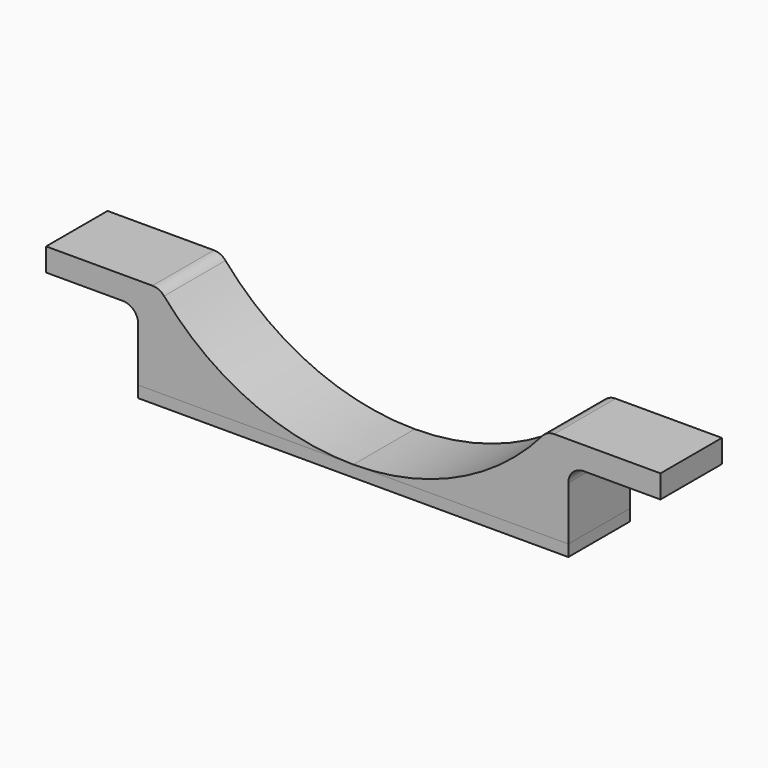
from build123d import *

# Parameters (mm, degrees)
F1_DEPTH = 10
F3_DEPTH = 10


with BuildPart() as f1:
    # F0 (on Front) → F1 (new body)
    with BuildSketch(Plane.XZ):
        with BuildLine():
            Line((-26.153394, 12), (-40, 12))
            Line((-40, 12), (-40, 9))
            Line((-40, 9), (-30, 9))
            ThreePointArc((-30, 9), (-28.585786, 8.414214), (-28, 7))
            Line((-28, 7), (-28, 0))
            Line((-28, 0), (0, 0))
            ThreePointArc((0, 0), (-13.553437, 2.960969), (-24.637255, 11.304348))
            ThreePointArc((-24.637255, 11.304348), (-25.319336, 11.817787), (-26.153394, 12))
        make_face()
        with BuildLine():
            Line((40, 9), (40, 12))
            Line((40, 12), (26.153394, 12))
            ThreePointArc((26.153394, 12), (25.319336, 11.817787), (24.637255, 11.304348))
            ThreePointArc((24.637255, 11.304348), (13.553437, 2.960969), (0, 0))
            Line((0, 0), (28, 0))
            Line((28, 0), (28, 7))
            ThreePointArc((28, 7), (28.585786, 8.414214), (30, 9))
            Line((30, 9), (40, 9))
        make_face()
    extrude(amount=F1_DEPTH)


with BuildPart() as f3:
    # F2 (on face) → F3 (new body)
    with BuildSketch(Plane.XZ.offset(10)):
        Polygon((0, 0), (-28, 0), (-28, -1.5), (28, -1.5), (28, 0), align=None)
    extrude(amount=-F3_DEPTH)


solid = Compound([f1.part, f3.part])
